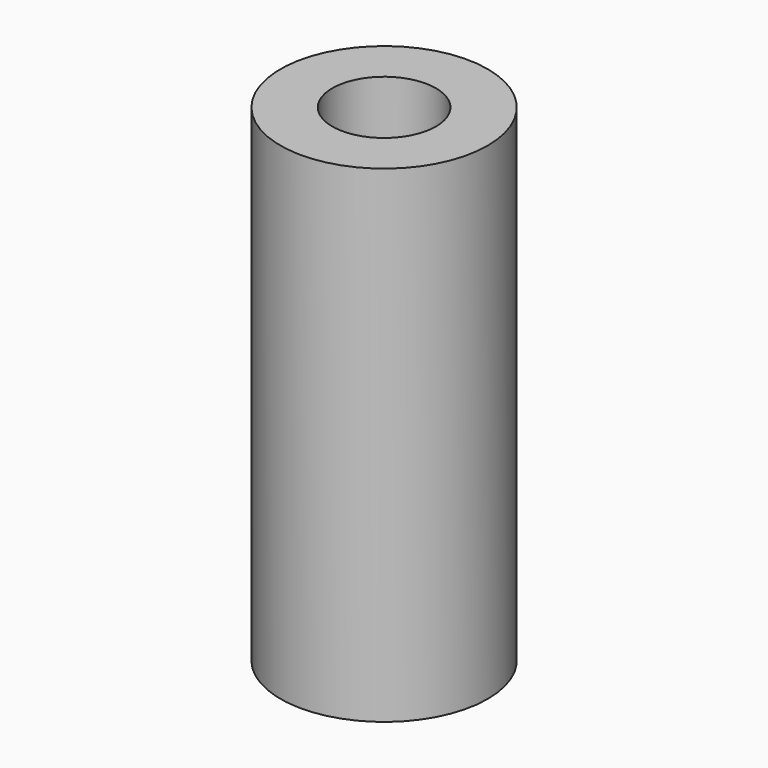
from build123d import *

# Parameters (mm, degrees)
SKETCH316_R      = 1
EXTRUDE171_DEPTH = 9.4
SKETCH317_R      = 2
EXTRUDE172_DEPTH = 9.4


with BuildPart() as extrude171:
    # Sketch316 → Extrude171 (new body)
    with BuildSketch(Plane.XY.offset(6.6)):
        with Locations((36, -22)):
            Circle(SKETCH316_R)
    extrude(amount=EXTRUDE171_DEPTH)


with BuildPart() as cut074:
    # Sketch317 → Extrude172 (new body)
    with BuildSketch(Plane.XY.offset(6.6)):
        with Locations((36, -22)):
            Circle(SKETCH317_R)
    extrude(amount=EXTRUDE172_DEPTH)

    # Cut074: cut Extrude171
    add(extrude171.part, mode=Mode.SUBTRACT)


solid = cut074.part
